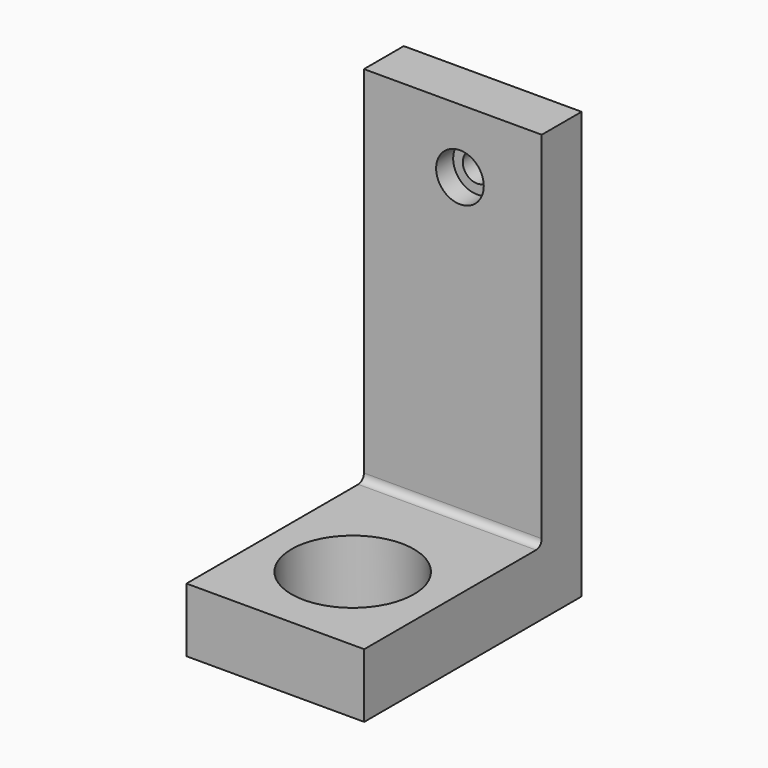
from build123d import *

# Parameters (mm, degrees)
F0_W           = 31.2
F0_H           = 9
F1_DEPTH       = 25
F3_D           = 17.2
F5_D           = 4
F5_CBORE_D     = 6.7
F5_CBORE_DEPTH = 3
F6_R           = 1


with BuildPart() as f1:
    # F0 (on Right) → F1 (new body)
    with BuildSketch(Plane.YZ):
        Polygon((-7, 0), (0, 0), (0, 60), (-7, 60), (-7, 9), align=None)
        with Locations((-22.6, 4.5)):
            Rectangle(F0_W, F0_H)
    extrude(amount=-F1_DEPTH)

    # F3 (through all)
    with Locations(Plane.XY.offset(9)):
        with Locations((-12.5, -24.6)):
            Hole(F3_D / 2)

    # F5 (through all)
    with Locations(Plane.XZ.offset(7)):
        with Locations((-11.5, 51)):
            CounterBoreHole(F5_D / 2, F5_CBORE_D / 2, F5_CBORE_DEPTH)

    # F6
    f6_edges = [f1.edges().sort_by_distance(p)[0] for p in [
        (-12.5, -7, 9),
    ]]
    fillet(f6_edges, radius=F6_R)


solid = f1.part
